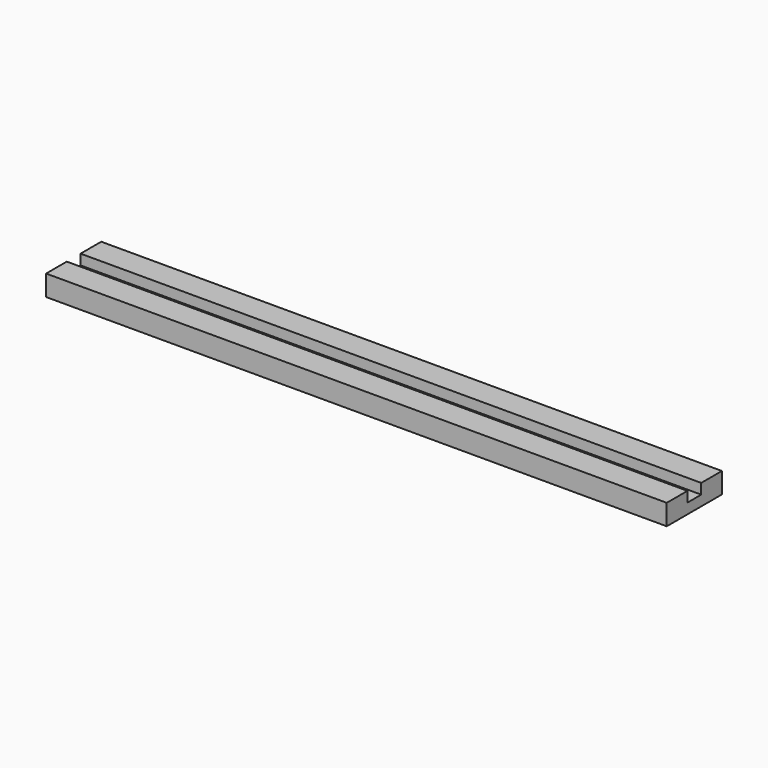
from build123d import *

# Parameters (mm, degrees)
F1_DEPTH = 180


with BuildPart() as f1:
    # F0 (on Right) → F1 (new body)
    with BuildSketch(Plane.YZ):
        Polygon((-10, 0), (0, 0), (0, 3), (-2.5, 3), (-2.5, 6), (-10, 6), align=None)
        Polygon((0, 3), (0, 0), (10, 0), (10, 6), (2.5, 6), (2.5, 3), align=None)
    extrude(amount=F1_DEPTH)


solid = f1.part
